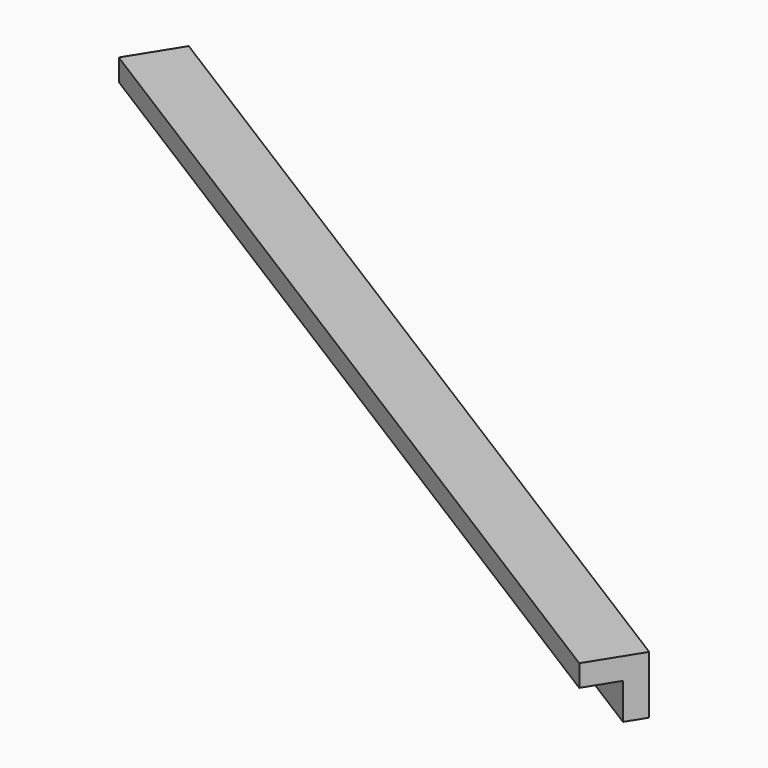
from build123d import *

# Parameters (mm, degrees)
BOX123_W               = 0.8
BOX123_H               = 15
BOX123_DEPTH           = 0.8
BOX124_W               = 0.8
BOX124_H               = 15
BOX124_DEPTH           = 0.8
CUT065_PLACEMENT_ANGLE = 58


with BuildPart() as cubo123:
    # Box123 → Box123 (new body)
    with BuildSketch(Plane.XY):
        with Locations((0.4, 7.5)):
            Rectangle(BOX123_W, BOX123_H)
    extrude(amount=BOX123_DEPTH)


with BuildPart() as obj1:
    # Box124 → Box124 (new body)
    with BuildSketch(Plane(origin=(0.3, 0, 0.3), x_dir=(1, 0, 0), z_dir=(0, 0, 1))):
        with Locations((0.4, 7.5)):
            Rectangle(BOX124_W, BOX124_H)
    extrude(amount=BOX124_DEPTH)

    # Cut065: cut Cubo123
    add(cubo123.part, mode=Mode.SUBTRACT)


with BuildPart() as obj1_1:
    # Cut065 placement: moved
    add(obj1.part.moved(Location((-186.4, 115, -1.45))).rotate(Axis((-186.4, 115, -1.45), (0, 0, 1)), CUT065_PLACEMENT_ANGLE))


solid = obj1_1.part
